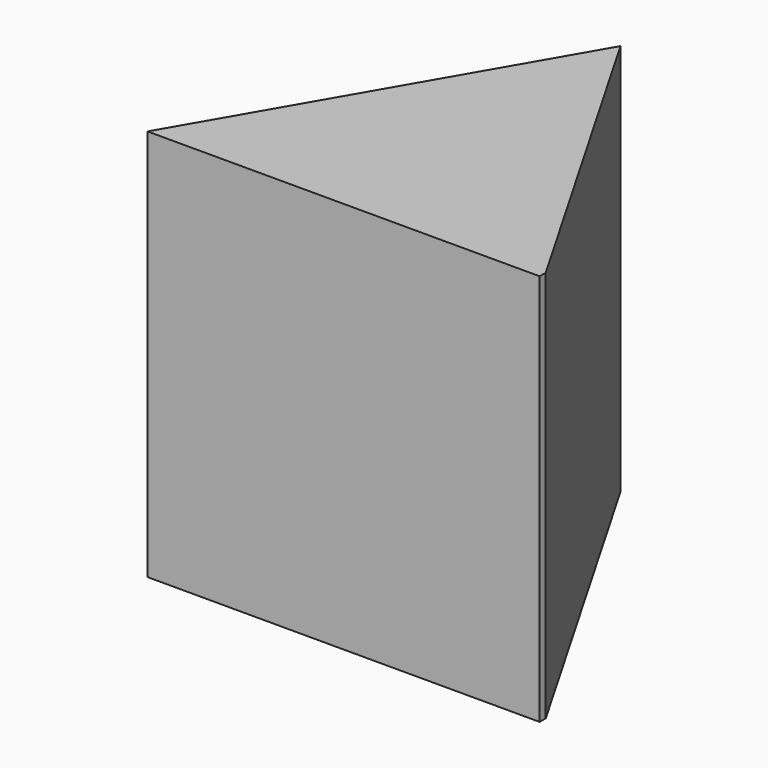
from build123d import *

# Parameters (mm, degrees)
BOX010_W               = 1
BOX010_H               = 1
BOX010_DEPTH           = 0.5
BOX010_PLACEMENT_ANGLE = 30
BOX011_W               = 1
BOX011_H               = 1
BOX011_DEPTH           = 0.5
BOX011_PLACEMENT_ANGLE = 60
BOX009_W               = 0.5
BOX009_H               = 0.5
BOX009_DEPTH           = 0.5


with BuildPart() as kub010:
    # Box010 → Box010 (new body)
    with BuildSketch(Plane.XY):
        with Locations((0.5, 0.5)):
            Rectangle(BOX010_W, BOX010_H)
    extrude(amount=BOX010_DEPTH)


with BuildPart() as kub010_1:
    # Box010 placement: moved
    add(kub010.part.moved(Location((0.4, 1, 2.02))).rotate(Axis((0.4, 1, 2.02), (0, 0, 1)), BOX010_PLACEMENT_ANGLE))


with BuildPart() as kub011:
    # Box011 → Box011 (new body)
    with BuildSketch(Plane.XY):
        with Locations((0.5, 0.5)):
            Rectangle(BOX011_W, BOX011_H)
    extrude(amount=BOX011_DEPTH)


with BuildPart() as kub011_1:
    # Box011 placement: moved
    add(kub011.part.moved(Location((-0.394, 1, 2.02))).rotate(Axis((-0.394, 1, 2.02), (0, 0, 1)), BOX011_PLACEMENT_ANGLE))


with BuildPart() as cut018:
    # Box009 → Box009 (new body)
    with BuildSketch(Plane(origin=(-0.25, 1.25, 2.02), x_dir=(1, 0, 0), z_dir=(0, 0, 1))):
        with Locations((0.25, 0.25)):
            Rectangle(BOX009_W, BOX009_H)
    extrude(amount=BOX009_DEPTH)

    # Cut017: cut Kub011
    add(kub011_1.part, mode=Mode.SUBTRACT)

    # Cut018: cut Kub010
    add(kub010_1.part, mode=Mode.SUBTRACT)


solid = cut018.part
